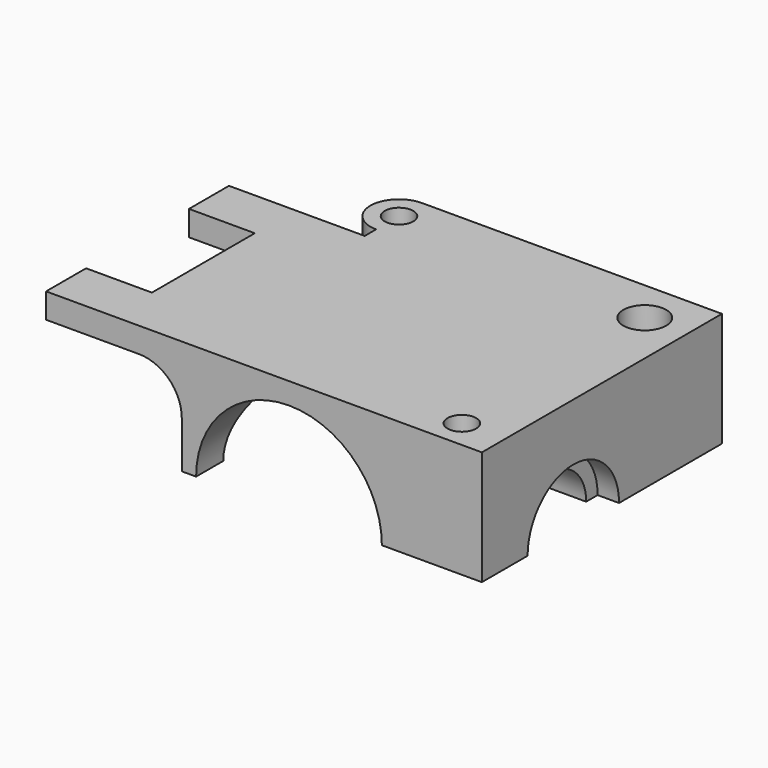
from build123d import *

# Parameters (mm, degrees)
CYLINDER076_R           = 13
CYLINDER076_DEPTH       = 2.2
CYLINDER076_ROLL_ANGLE  = 90
CYLINDER075_W           = 14
CYLINDER075_H           = 2
CYLINDER075_ANGLE       = 180
CYLINDER075_ROLL_ANGLE  = 90
CYLINDER029_R           = 6
CYLINDER029_DEPTH       = 20
CYLINDER029_PITCH_ANGLE = 90
CYLINDER030_R           = 6
CYLINDER030_DEPTH       = 20
CYLINDER030_PITCH_ANGLE = 90
CYLINDER028_R           = 13
CYLINDER028_DEPTH       = 50
CYLINDER028_ROLL_ANGLE  = 90
CYLINDER027_R           = 8
CYLINDER027_DEPTH       = 3
CYLINDER027_PITCH_ANGLE = 90
CYLINDER026_R           = 6
CYLINDER026_DEPTH       = 39
CYLINDER026_PITCH_ANGLE = 90
CYLINDER025_R           = 8.25
CYLINDER025_DEPTH       = 33
CYLINDER025_PITCH_ANGLE = 90
CYLINDER024_R           = 11.25
CYLINDER024_DEPTH       = 36
CYLINDER024_PITCH_ANGLE = 90
BOX009_W                = 10
BOX009_H                = 6
BOX009_DEPTH            = 2.7
CYLINDER023_R           = 3
CYLINDER023_DEPTH       = 11
CYLINDER022_R           = 2
CYLINDER022_DEPTH       = 29
BOX008_W                = 10
BOX008_H                = 6
BOX008_DEPTH            = 2.7
CYLINDER021_R           = 3
CYLINDER021_DEPTH       = 11
CYLINDER020_R           = 2
CYLINDER020_DEPTH       = 22
BOX017_W                = 15
BOX017_H                = 6
BOX017_DEPTH            = 3
CYLINDER056_R           = 1.5
CYLINDER056_DEPTH       = 25
CYLINDER055_R           = 2
CYLINDER055_DEPTH       = 32
CYLINDER046_R           = 5
CYLINDER046_DEPTH       = 2.2
CYLINDER046_ROLL_ANGLE  = 90
BOX005_W                = 15
BOX005_H                = 18
BOX005_DEPTH            = 15
BOX005_PITCH_ANGLE      = 45
CYLINDER015_R           = 6
CYLINDER015_DEPTH       = 32
CYLINDER015_ROLL_ANGLE  = 90
BOX004_W                = 6
BOX004_H                = 32
BOX004_DEPTH            = 6
BOX003_W                = 19
BOX003_H                = 32
BOX003_DEPTH            = 3.5
BOX001_W                = 42
BOX001_H                = 42
BOX001_DEPTH            = 16
CYLINDER047_R           = 4
CYLINDER047_DEPTH       = 8


with BuildPart() as obj1:
    # Cylinder076 → Cylinder076 (new body)
    with BuildSketch(Plane.XY):
        Circle(CYLINDER076_R)
    extrude(amount=CYLINDER076_DEPTH)


with BuildPart() as obj1_1:
    # Cylinder076 roll: moved
    add(obj1.part.rotate(Axis((0, 0, 0), (1, 0, 0)), CYLINDER076_ROLL_ANGLE))


with BuildPart() as obj1_2:
    # Cylinder076 placement: moved
    add(obj1_1.part.moved(Location((15, 29, 0))))


with BuildPart() as obj2:
    # Cylinder075 → Cylinder075 (revolve)
    with BuildSketch(Plane.XZ):
        with Locations((7, 1)):
            Rectangle(CYLINDER075_W, CYLINDER075_H)
    revolve(axis=Axis((0, 0, 0), (0, 0, 1)), revolution_arc=CYLINDER075_ANGLE)


with BuildPart() as obj2_1:
    # Cylinder075 roll: moved
    add(obj2.part.rotate(Axis((0, 0, 0), (1, 0, 0)), CYLINDER075_ROLL_ANGLE))


with BuildPart() as obj2_2:
    # Cylinder075 placement: moved
    add(obj2_1.part.moved(Location((15, 29, 0))))

    # Cut010005: cut obj1
    add(obj1_2.part, mode=Mode.SUBTRACT)


with BuildPart() as obj2_3:
    # Cut010005 placement: moved
    add(obj2_2.part.moved(Location((0, -1, 0))))


with BuildPart() as cylinder029:
    # Cylinder029 → Cylinder029 (new body)
    with BuildSketch(Plane.XY):
        Circle(CYLINDER029_R)
    extrude(amount=CYLINDER029_DEPTH)


with BuildPart() as cylinder029_1:
    # Cylinder029 pitch: moved
    add(cylinder029.part.rotate(Axis((0, 0, 0), (0, 1, 0)), CYLINDER029_PITCH_ANGLE))


with BuildPart() as cylinder029_2:
    # Cylinder029 placement: moved
    add(cylinder029_1.part.moved(Location((5, 0, 17.7))))


with BuildPart() as fusion019:
    # Cylinder030 → Cylinder030 (new body)
    with BuildSketch(Plane.XY):
        Circle(CYLINDER030_R)
    extrude(amount=CYLINDER030_DEPTH)


with BuildPart() as fusion019_1:
    # Cylinder030 pitch: moved
    add(fusion019.part.rotate(Axis((0, 0, 0), (0, 1, 0)), CYLINDER030_PITCH_ANGLE))


with BuildPart() as fusion019_2:
    # Cylinder030 placement: moved
    add(fusion019_1.part.moved(Location((5, 0, -17.7))))

    # Fusion019: union Cylinder029
    add(cylinder029_2.part)


with BuildPart() as cut003:
    # Cylinder028 → Cylinder028 (new body)
    with BuildSketch(Plane.XY):
        Circle(CYLINDER028_R)
    extrude(amount=CYLINDER028_DEPTH)


with BuildPart() as cut003_1:
    # Cylinder028 roll: moved
    add(cut003.part.rotate(Axis((0, 0, 0), (1, 0, 0)), CYLINDER028_ROLL_ANGLE))


with BuildPart() as cut003_2:
    # Cylinder028 placement: moved
    add(cut003_1.part.moved(Location((15, 29, 0))))

    # Cut003: cut Fusion019
    add(fusion019_2.part, mode=Mode.SUBTRACT)


with BuildPart() as cylinder027:
    # Cylinder027 → Cylinder027 (new body)
    with BuildSketch(Plane.XY):
        Circle(CYLINDER027_R)
    extrude(amount=CYLINDER027_DEPTH)


with BuildPart() as cylinder027_1:
    # Cylinder027 pitch: moved
    add(cylinder027.part.rotate(Axis((0, 0, 0), (0, 1, 0)), CYLINDER027_PITCH_ANGLE))


with BuildPart() as cylinder027_2:
    # Cylinder027 placement: moved
    add(cylinder027_1.part.moved(Location((39, 0, 0))))


with BuildPart() as cylinder026:
    # Cylinder026 → Cylinder026 (new body)
    with BuildSketch(Plane.XY):
        Circle(CYLINDER026_R)
    extrude(amount=CYLINDER026_DEPTH)


with BuildPart() as cylinder026_1:
    # Cylinder026 pitch: moved
    add(cylinder026.part.rotate(Axis((0, 0, 0), (0, 1, 0)), CYLINDER026_PITCH_ANGLE))


with BuildPart() as cylinder026_2:
    # Cylinder026 placement: moved
    add(cylinder026_1.part)


with BuildPart() as cylinder025:
    # Cylinder025 → Cylinder025 (new body)
    with BuildSketch(Plane.XY):
        Circle(CYLINDER025_R)
    extrude(amount=CYLINDER025_DEPTH)


with BuildPart() as cylinder025_1:
    # Cylinder025 pitch: moved
    add(cylinder025.part.rotate(Axis((0, 0, 0), (0, 1, 0)), CYLINDER025_PITCH_ANGLE))


with BuildPart() as cylinder025_2:
    # Cylinder025 placement: moved
    add(cylinder025_1.part)


with BuildPart() as obj3:
    # Cylinder024 → Cylinder024 (new body)
    with BuildSketch(Plane.XY):
        Circle(CYLINDER024_R)
    extrude(amount=CYLINDER024_DEPTH)


with BuildPart() as obj3_1:
    # Cylinder024 pitch: moved
    add(obj3.part.rotate(Axis((0, 0, 0), (0, 1, 0)), CYLINDER024_PITCH_ANGLE))


with BuildPart() as obj3_2:
    # Cylinder024 placement: moved
    add(obj3_1.part.moved(Location((-6, 0, 0))))

    # Fusion020: union Cut003, Cylinder027, Cylinder026, Cylinder025
    add(cut003_2.part)
    add(cylinder027_2.part)
    add(cylinder026_2.part)
    add(cylinder025_2.part)


with BuildPart() as cube006:
    # Box009 → Box009 (new body)
    with BuildSketch(Plane(origin=(41.8, 14, -7.5), x_dir=(1, 0, 0), z_dir=(0, 0, 1))):
        with Locations((5, 3)):
            Rectangle(BOX009_W, BOX009_H)
    extrude(amount=BOX009_DEPTH)


with BuildPart() as cylinder023:
    # Cylinder023 → Cylinder023 (new body)
    with BuildSketch(Plane(origin=(45, 21, -6), x_dir=(1, 0, 0), z_dir=(0, 0, 1))):
        Circle(CYLINDER023_R)
    extrude(amount=CYLINDER023_DEPTH)


with BuildPart() as fusion017:
    # Cylinder022 → Cylinder022 (new body)
    with BuildSketch(Plane(origin=(45, 21, -34), x_dir=(1, 0, 0), z_dir=(0, 0, 1))):
        Circle(CYLINDER022_R)
    extrude(amount=CYLINDER022_DEPTH)

    # Fusion016: union Cylinder023
    add(cylinder023.part)


with BuildPart() as fusion017_1:
    # Fusion016 placement: moved
    add(fusion017.part.moved(Location((0, -4, 24))))

    # Fusion017: union Cube006
    add(cube006.part)


with BuildPart() as fusion017_2:
    # Fusion017 placement: moved
    add(fusion017_1.part.moved(Location((-9, -29, 0))))


with BuildPart() as cube005:
    # Box008 → Box008 (new body)
    with BuildSketch(Plane(origin=(41.8, 14, -7.5), x_dir=(1, 0, 0), z_dir=(0, 0, 1))):
        with Locations((5, 3)):
            Rectangle(BOX008_W, BOX008_H)
    extrude(amount=BOX008_DEPTH)


with BuildPart() as cylinder021:
    # Cylinder021 → Cylinder021 (new body)
    with BuildSketch(Plane(origin=(45, 21, -12), x_dir=(1, 0, 0), z_dir=(0, 0, 1))):
        Circle(CYLINDER021_R)
    extrude(amount=CYLINDER021_DEPTH)


with BuildPart() as obj4:
    # Cylinder020 → Cylinder020 (new body)
    with BuildSketch(Plane(origin=(45, 21, -34), x_dir=(1, 0, 0), z_dir=(0, 0, 1))):
        Circle(CYLINDER020_R)
    extrude(amount=CYLINDER020_DEPTH)

    # Fusion014: union Cylinder021
    add(cylinder021.part)


with BuildPart() as obj4_1:
    # Fusion014 placement: moved
    add(obj4.part.moved(Location((0, -4, 24))))

    # Fusion015: union Cube005
    add(cube005.part)


with BuildPart() as obj4_2:
    # Fusion015 placement: moved
    add(obj4_1.part.moved(Location((-9, 3, 0))))

    # Fusion018: union Fusion017
    add(fusion017_2.part)


with BuildPart() as cube014:
    # Box017 → Box017 (new body)
    with BuildSketch(Plane(origin=(58.2, 67, 3), x_dir=(1, 0, 0), z_dir=(0, 0, 1))):
        with Locations((7.5, 3)):
            Rectangle(BOX017_W, BOX017_H)
    extrude(amount=BOX017_DEPTH)


with BuildPart() as cylinder056:
    # Cylinder056 → Cylinder056 (new body)
    with BuildSketch(Plane(origin=(70, 70, 7), x_dir=(1, 0, 0), z_dir=(0, 0, 1))):
        Circle(CYLINDER056_R)
    extrude(amount=CYLINDER056_DEPTH)


with BuildPart() as obj5:
    # Cylinder055 → Cylinder055 (new body)
    with BuildSketch(Plane(origin=(70, 70, 0), x_dir=(1, 0, 0), z_dir=(0, 0, 1))):
        Circle(CYLINDER055_R)
    extrude(amount=CYLINDER055_DEPTH)

    # Fusion040: union Cube014, Cylinder056
    add(cube014.part)
    add(cylinder056.part)


with BuildPart() as obj5_1:
    # Fusion040 placement: moved
    add(obj5.part.moved(Location((-70, -48, 7))))


with BuildPart() as obj6:
    # Cylinder046 → Cylinder046 (new body)
    with BuildSketch(Plane.XY):
        Circle(CYLINDER046_R)
    extrude(amount=CYLINDER046_DEPTH)


with BuildPart() as obj6_1:
    # Cylinder046 roll: moved
    add(obj6.part.rotate(Axis((0, 0, 0), (1, 0, 0)), CYLINDER046_ROLL_ANGLE))


with BuildPart() as obj6_2:
    # Cylinder046 placement: moved
    add(obj6_1.part.moved(Location((15, 26, 0))))

    # Fusion052: union obj3, obj4, obj5
    add(obj3_2.part)
    add(obj4_2.part)
    add(obj5_1.part)


with BuildPart() as cube002:
    # Box005 → Box005 (new body)
    with BuildSketch(Plane.XY):
        with Locations((7.5, 9)):
            Rectangle(BOX005_W, BOX005_H)
    extrude(amount=BOX005_DEPTH)


with BuildPart() as cube002_1:
    # Box005 pitch: moved
    add(cube002.part.rotate(Axis((0, 0, 0), (0, 1, 0)), BOX005_PITCH_ANGLE))


with BuildPart() as cube002_2:
    # Box005 placement: moved
    add(cube002_1.part.moved(Location((-30, -9, 17))))


with BuildPart() as cylinder015:
    # Cylinder015 → Cylinder015 (new body)
    with BuildSketch(Plane.XY):
        Circle(CYLINDER015_R)
    extrude(amount=CYLINDER015_DEPTH)


with BuildPart() as cylinder015_1:
    # Cylinder015 roll: moved
    add(cylinder015.part.rotate(Axis((0, 0, 0), (1, 0, 0)), CYLINDER015_ROLL_ANGLE))


with BuildPart() as cylinder015_2:
    # Cylinder015 placement: moved
    add(cylinder015_1.part.moved(Location((-6, 16, 6.5))))


with BuildPart() as cut001:
    # Box004 → Box004 (new body)
    with BuildSketch(Plane(origin=(-6, -16, 6.5), x_dir=(1, 0, 0), z_dir=(0, 0, 1))):
        with Locations((3, 16)):
            Rectangle(BOX004_W, BOX004_H)
    extrude(amount=BOX004_DEPTH)

    # Cut001: cut Cylinder015
    add(cylinder015_2.part, mode=Mode.SUBTRACT)


with BuildPart() as cut002:
    # Box003 → Box003 (new body)
    with BuildSketch(Plane(origin=(-19, -16, 12.5), x_dir=(1, 0, 0), z_dir=(0, 0, 1))):
        with Locations((9.5, 16)):
            Rectangle(BOX003_W, BOX003_H)
    extrude(amount=BOX003_DEPTH)

    # Fusion007: union Cut001
    add(cut001.part)

    # Cut002: cut Cube002
    add(cube002_2.part, mode=Mode.SUBTRACT)


with BuildPart() as fusion008:
    # Box001 → Box001 (new body)
    with BuildSketch(Plane(origin=(0, -16, 0), x_dir=(1, 0, 0), z_dir=(0, 0, 1))):
        with Locations((21, 21)):
            Rectangle(BOX001_W, BOX001_H)
    extrude(amount=BOX001_DEPTH)

    # Fusion008: union Cut002
    add(cut002.part)


with BuildPart() as obj7:
    # Cylinder047 → Cylinder047 (new body)
    with BuildSketch(Plane(origin=(0, 22, 8), x_dir=(1, 0, 0), z_dir=(0, 0, 1))):
        Circle(CYLINDER047_R)
    extrude(amount=CYLINDER047_DEPTH)

    # Fusion049: union Fusion008
    add(fusion008.part)

    # Cut010: cut obj6
    add(obj6_2.part, mode=Mode.SUBTRACT)

    # Fusion058: union obj2
    add(obj2_3.part)


solid = obj7.part
